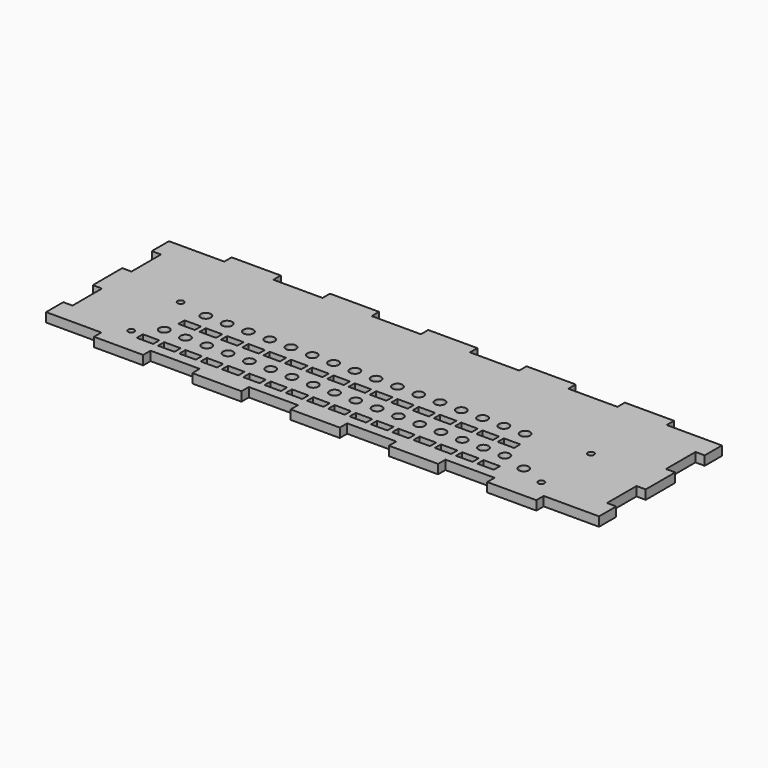
from build123d import *

# Parameters (mm, degrees)
F0_W      = 285.75
F0_H      = 88.9
F1_DEPTH  = 4.7625
F2_R      = 2.6
F3_DEPTH  = 25.4
F4_W      = 8.5
F4_H      = 4
F5_DEPTH  = 25.4
F6_R      = 1.6
F7_DEPTH  = 25.4
F8_W      = 25.4
F8_H      = 4.7625
F9_DEPTH  = 25.4
F10_W     = 4.7625
F10_H     = 19.05
F11_DEPTH = 25.4
F12_DEPTH = 25.4


with BuildPart() as f1:
    # F0 (on Top) → F1 (new body)
    with BuildSketch(Plane.XY):
        Rectangle(F0_W, F0_H)
    extrude(amount=F1_DEPTH)

    # F2 (on face) → F3 (cut)
    with BuildSketch(Plane.XY.offset(4.7625)):
        with Locations((-96, -21.95)):
            Circle(F2_R)
        with Locations((-85, -21.95)):
            Circle(F2_R)
        with Locations((-74, -21.95)):
            Circle(F2_R)
        with Locations((-63, -21.95)):
            Circle(F2_R)
        with Locations((-52, -21.95)):
            Circle(F2_R)
        with Locations((-41, -21.95)):
            Circle(F2_R)
        with Locations((-30, -21.95)):
            Circle(F2_R)
        with Locations((-19, -21.95)):
            Circle(F2_R)
        with Locations((-8, -21.95)):
            Circle(F2_R)
        with Locations((3, -21.95)):
            Circle(F2_R)
        with Locations((14, -21.95)):
            Circle(F2_R)
        with Locations((25, -21.95)):
            Circle(F2_R)
        with Locations((36, -21.95)):
            Circle(F2_R)
        with Locations((47, -21.95)):
            Circle(F2_R)
        with Locations((58, -21.95)):
            Circle(F2_R)
        with Locations((69, -21.95)):
            Circle(F2_R)
        with Locations((80, -21.95)):
            Circle(F2_R)
        with Locations((-90.5, -1.95)):
            Circle(F2_R)
        with Locations((-79.5, -1.95)):
            Circle(F2_R)
        with Locations((-68.5, -1.95)):
            Circle(F2_R)
        with Locations((-57.5, -1.95)):
            Circle(F2_R)
        with Locations((-46.5, -1.95)):
            Circle(F2_R)
        with Locations((-35.5, -1.95)):
            Circle(F2_R)
        with Locations((-24.5, -1.95)):
            Circle(F2_R)
        with Locations((-13.5, -1.95)):
            Circle(F2_R)
        with Locations((-2.5, -1.95)):
            Circle(F2_R)
        with Locations((8.5, -1.95)):
            Circle(F2_R)
        with Locations((19.5, -1.95)):
            Circle(F2_R)
        with Locations((30.5, -1.95)):
            Circle(F2_R)
        with Locations((41.5, -1.95)):
            Circle(F2_R)
        with Locations((52.5, -1.95)):
            Circle(F2_R)
        with Locations((63.5, -1.95)):
            Circle(F2_R)
        with Locations((74.5, -1.95)):
            Circle(F2_R)
        with Locations((93, -25.95)):
            Circle(F2_R)
    extrude(amount=-F3_DEPTH, mode=Mode.SUBTRACT)

    # F4 (on face) → F5 (cut)
    with BuildSketch(Plane.XY.offset(4.7625)):
        with Locations((-96, -32.41)):
            Rectangle(F4_W, F4_H)
        with Locations((-85, -32.41)):
            Rectangle(F4_W, F4_H)
        with Locations((-74, -32.41)):
            Rectangle(F4_W, F4_H)
        with Locations((-63, -32.41)):
            Rectangle(F4_W, F4_H)
        with Locations((-52, -32.41)):
            Rectangle(F4_W, F4_H)
        with Locations((-41, -32.41)):
            Rectangle(F4_W, F4_H)
        with Locations((-30, -32.41)):
            Rectangle(F4_W, F4_H)
        with Locations((-19, -32.41)):
            Rectangle(F4_W, F4_H)
        with Locations((-8, -32.41)):
            Rectangle(F4_W, F4_H)
        with Locations((3, -32.41)):
            Rectangle(F4_W, F4_H)
        with Locations((14, -32.41)):
            Rectangle(F4_W, F4_H)
        with Locations((25, -32.41)):
            Rectangle(F4_W, F4_H)
        with Locations((36, -32.41)):
            Rectangle(F4_W, F4_H)
        with Locations((47, -32.41)):
            Rectangle(F4_W, F4_H)
        with Locations((58, -32.41)):
            Rectangle(F4_W, F4_H)
        with Locations((69, -32.41)):
            Rectangle(F4_W, F4_H)
        with Locations((80, -32.41)):
            Rectangle(F4_W, F4_H)
        with Locations((-90.5, -12.41)):
            Rectangle(F4_W, F4_H)
        with Locations((-79.5, -12.41)):
            Rectangle(F4_W, F4_H)
        with Locations((-68.5, -12.41)):
            Rectangle(F4_W, F4_H)
        with Locations((-57.5, -12.41)):
            Rectangle(F4_W, F4_H)
        with Locations((-46.5, -12.41)):
            Rectangle(F4_W, F4_H)
        with Locations((-35.5, -12.41)):
            Rectangle(F4_W, F4_H)
        with Locations((-24.5, -12.41)):
            Rectangle(F4_W, F4_H)
        with Locations((-13.5, -12.41)):
            Rectangle(F4_W, F4_H)
        with Locations((-2.5, -12.41)):
            Rectangle(F4_W, F4_H)
        with Locations((8.5, -12.41)):
            Rectangle(F4_W, F4_H)
        with Locations((19.5, -12.41)):
            Rectangle(F4_W, F4_H)
        with Locations((30.5, -12.41)):
            Rectangle(F4_W, F4_H)
        with Locations((41.5, -12.41)):
            Rectangle(F4_W, F4_H)
        with Locations((52.5, -12.41)):
            Rectangle(F4_W, F4_H)
        with Locations((63.5, -12.41)):
            Rectangle(F4_W, F4_H)
        with Locations((74.5, -12.41)):
            Rectangle(F4_W, F4_H)
    extrude(amount=-F5_DEPTH, mode=Mode.SUBTRACT)

    # F6 (on face) → F7 (cut)
    with BuildSketch(Plane.XY.offset(4.7625)):
        with Locations((-105.9, -30.95)):
            Circle(F6_R)
        with Locations((-105.9, 1.05)):
            Circle(F6_R)
        with Locations((106.1, -30.95)):
            Circle(F6_R)
        with Locations((106.1, 1.05)):
            Circle(F6_R)
    extrude(amount=-F7_DEPTH, mode=Mode.SUBTRACT)

    # F8 (on face) → F9 (cut)
    with BuildSketch(Plane.XY.offset(4.7625)):
        with Locations((-25.4, 42.06875)):
            Rectangle(F8_W, F8_H)
        with Locations((-76.2, 42.06875)):
            Rectangle(F8_W, F8_H)
        Polygon((-114.3, 44.45), (-139.7, 44.45), (-142.875, 44.45), (-142.875, 39.6875), (-139.7, 39.6875), (-114.3, 39.6875), align=None)
        Polygon((142.875, 44.45), (139.7, 44.45), (114.3, 44.45), (114.3, 39.6875), (139.7, 39.6875), (142.875, 39.6875), align=None)
        with Locations((25.4, 42.06875)):
            Rectangle(F8_W, F8_H)
        with Locations((76.2, 42.06875)):
            Rectangle(F8_W, F8_H)
        with Locations((76.2, -42.06875)):
            Rectangle(F8_W, F8_H)
        Polygon((-114.3, -39.6875), (-139.7, -39.6875), (-142.875, -39.6875), (-142.875, -44.45), (-139.7, -44.45), (-114.3, -44.45), align=None)
        Polygon((142.875, -39.6875), (139.7, -39.6875), (114.3, -39.6875), (114.3, -44.45), (139.7, -44.45), (142.875, -44.45), align=None)
        with Locations((-25.4, -42.06875)):
            Rectangle(F8_W, F8_H)
        with Locations((-76.2, -42.06875)):
            Rectangle(F8_W, F8_H)
        with Locations((25.4, -42.06875)):
            Rectangle(F8_W, F8_H)
    extrude(amount=-F9_DEPTH, mode=Mode.SUBTRACT)

    # F10 (on face) → F11 (cut)
    with BuildSketch(Plane.XY.offset(4.7625)):
        with Locations((-140.49375, 19.05)):
            Rectangle(F10_W, F10_H)
        with Locations((-140.49375, -19.05)):
            Rectangle(F10_W, F10_H)
        with Locations((140.49375, 19.05)):
            Rectangle(F10_W, F10_H)
        with Locations((140.49375, -19.05)):
            Rectangle(F10_W, F10_H)
    extrude(amount=-F11_DEPTH, mode=Mode.SUBTRACT)

    # F10 (on face) → F12 (cut)
    with BuildSketch(Plane.XY.offset(4.7625)):
        with Locations((-140.49375, 19.05)):
            Rectangle(F10_W, F10_H)
        with Locations((-140.49375, -19.05)):
            Rectangle(F10_W, F10_H)
        with Locations((140.49375, 19.05)):
            Rectangle(F10_W, F10_H)
        with Locations((140.49375, -19.05)):
            Rectangle(F10_W, F10_H)
    extrude(amount=-F12_DEPTH, mode=Mode.SUBTRACT)


solid = f1.part
